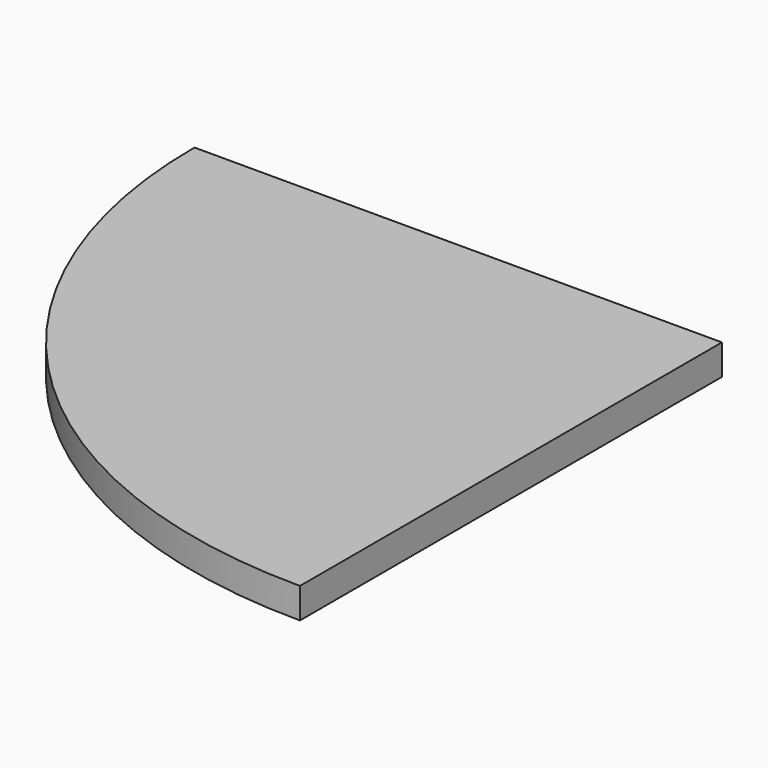
from build123d import *

# Parameters (mm, degrees)
F1_DEPTH = 18


with BuildPart() as f1:
    # F0 (on Top) → F1 (new body)
    with BuildSketch(Plane.XY):
        with BuildLine():
            ThreePointArc((-312, 312), (-220.769877, 91.230123), (0, 0))
            Line((0, 0), (0, 312))
            Line((0, 312), (-312, 312))
        make_face()
    extrude(amount=F1_DEPTH)


solid = f1.part
